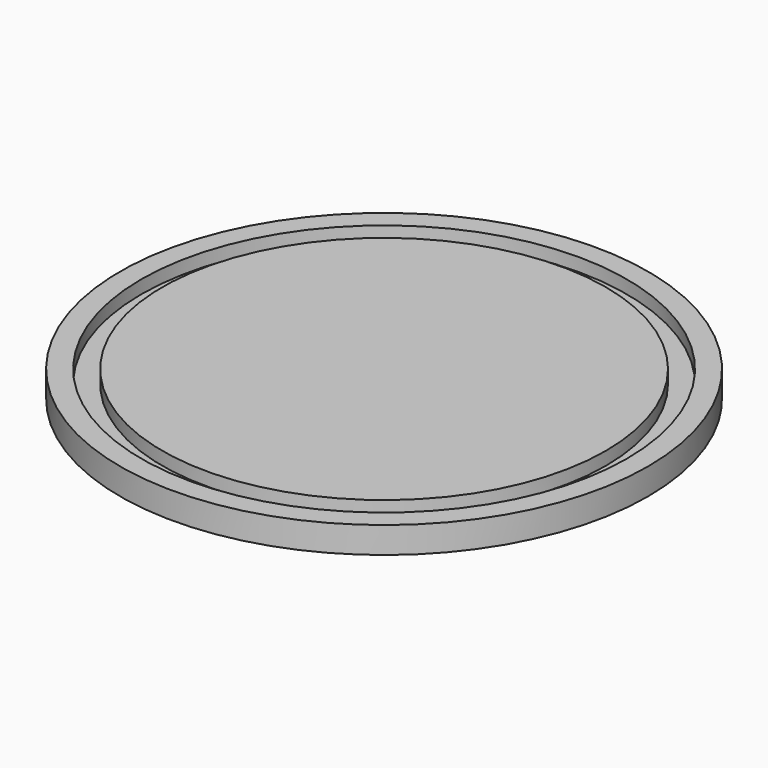
from build123d import *

# Parameters (mm, degrees)
F0_R     = 25
F0_R_2   = 23
F0_R_3   = 21
F1_DEPTH = 1.25
F2_DEPTH = 25


with BuildPart() as f1:
    # F0 (on Top) → F1 (new body, symmetric)
    with BuildSketch(Plane.XY):
        Circle(F0_R)
        Circle(F0_R_2, mode=Mode.SUBTRACT)
        Circle(F0_R_2)
        Circle(F0_R_3, mode=Mode.SUBTRACT)
        Circle(F0_R_3)
    extrude(amount=F1_DEPTH, both=True)

    # F0 (on Top) → F2 (cut)
    with BuildSketch(Plane.XY):
        Circle(F0_R_2)
        Circle(F0_R_3, mode=Mode.SUBTRACT)
    extrude(amount=F2_DEPTH, mode=Mode.SUBTRACT)


solid = f1.part
